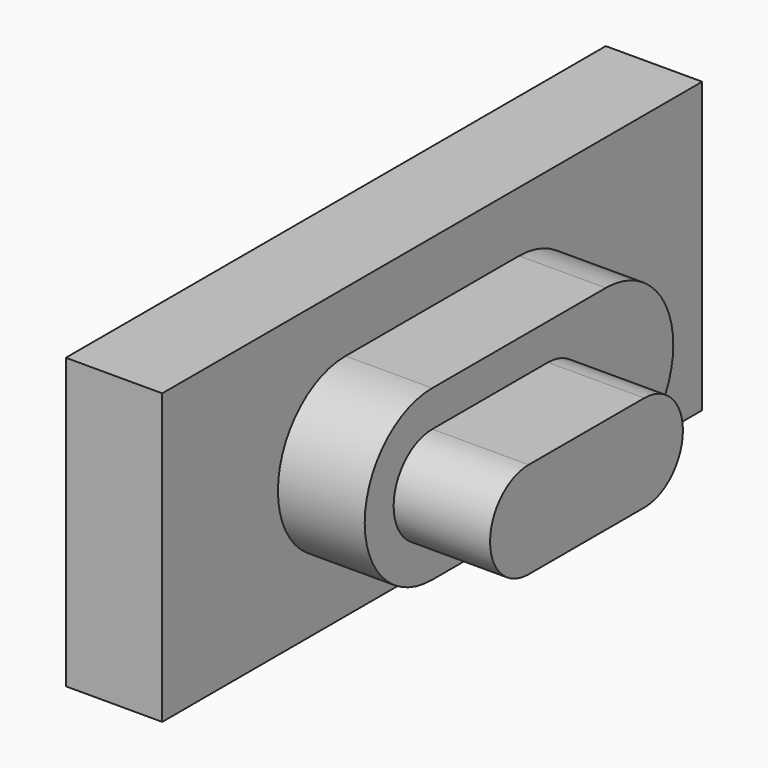
from build123d import *

# Parameters (mm, degrees)
SKETCH052_W     = 14
SKETCH052_H     = 6
PAD022_DEPTH    = 2
PAD023_DEPTH    = 1.8
PAD024_DEPTH    = 2
SKETCH056_W     = 3
SKETCH056_H     = 3
POCKET025_DEPTH = 2


with BuildPart() as part:
    # Sketch052 → Pad022 (new body)
    with BuildSketch(Plane(origin=(232, -0.5, 0.8), x_dir=(0, 1, 0), z_dir=(1, 0, 0))):
        with Locations((-52.22, 6.7)):
            Rectangle(SKETCH052_W, SKETCH052_H)
    extrude(amount=PAD022_DEPTH)

    # Sketch053 (on Face6 of Pad022) → Pad023 (join)
    with BuildSketch(Plane.YZ.offset(234)):
        with BuildLine():
            ThreePointArc((-54.97, 9.25), (-56.72, 7.5), (-54.97, 5.75))
            Line((-54.97, 5.75), (-50.47, 5.75))
            ThreePointArc((-50.47, 5.75), (-48.72, 7.5), (-50.47, 9.25))
            Line((-54.97, 9.25), (-50.47, 9.25))
        make_face()
    extrude(amount=PAD023_DEPTH)

    # Sketch054 (on Face11 of Pad023) → Pad024 (join)
    with BuildSketch(Plane.YZ.offset(235.8)):
        with BuildLine():
            ThreePointArc((-54.97, 8.5), (-55.97, 7.5), (-54.97, 6.5))
            Line((-54.97, 6.5), (-51.97, 6.5))
            ThreePointArc((-51.97, 6.5), (-50.97, 7.5), (-51.97, 8.5))
            Line((-54.97, 8.5), (-51.97, 8.5))
        make_face()
    extrude(amount=PAD024_DEPTH)

    # Sketch056 (on Face16 of Pad024) → Pocket025 (cut)
    with BuildSketch(Plane.YZ.offset(232)):
        with Locations((-53.47, 7.5)):
            Rectangle(SKETCH056_W, SKETCH056_H)
    extrude(amount=POCKET025_DEPTH, mode=Mode.SUBTRACT)


solid = part.part
